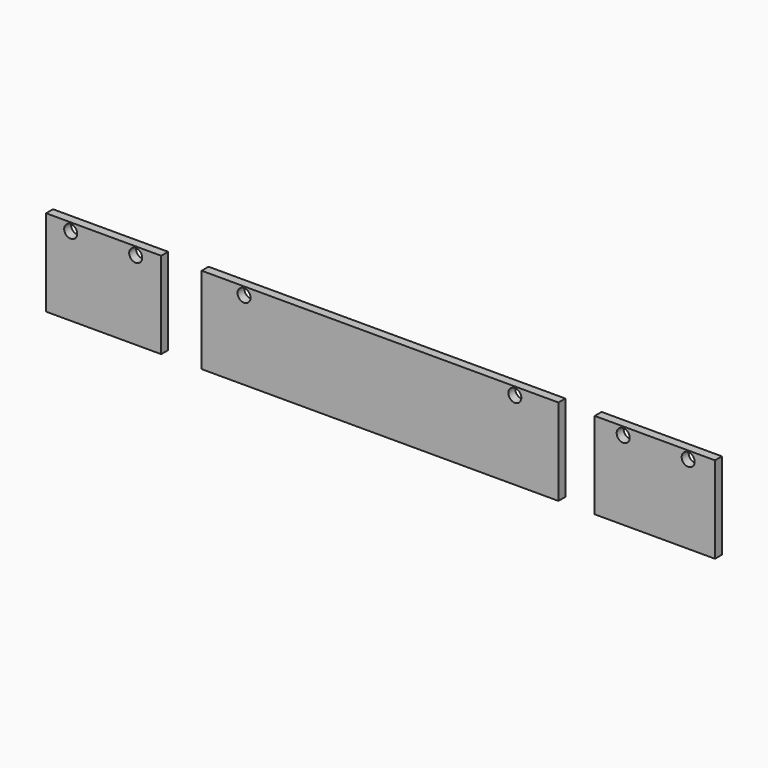
from build123d import *

# Parameters (mm, degrees)
F0_W     = 106.263236
F0_H     = 80
F0_R     = 6
F0_W_2   = 329.320341
F0_W_3   = 111.04989
F1_DEPTH = 8


with BuildPart() as f1:
    # F0 (on Front) → F1 (new body)
    with BuildSketch(Plane.XZ):
        with Locations((-285.055153, 8.789516)):
            Rectangle(F0_W, F0_H)
        with Locations((-315.463235, 41.447841)):
            Circle(F0_R, mode=Mode.SUBTRACT)
        with Locations((-255.463235, 41.447841)):
            Circle(F0_R, mode=Mode.SUBTRACT)
        with Locations((-29.927627, 8.789516)):
            Rectangle(F0_W_2, F0_H)
        with Locations((-155.463235, 41.447841)):
            Circle(F0_R, mode=Mode.SUBTRACT)
        with Locations((94.536765, 41.447841)):
            Circle(F0_R, mode=Mode.SUBTRACT)
        with Locations((223.763913, 8.789516)):
            Rectangle(F0_W_3, F0_H)
        with Locations((194.536765, 41.447841)):
            Circle(F0_R, mode=Mode.SUBTRACT)
        with Locations((254.536765, 41.447841)):
            Circle(F0_R, mode=Mode.SUBTRACT)
    extrude(amount=F1_DEPTH)


solid = f1.part
